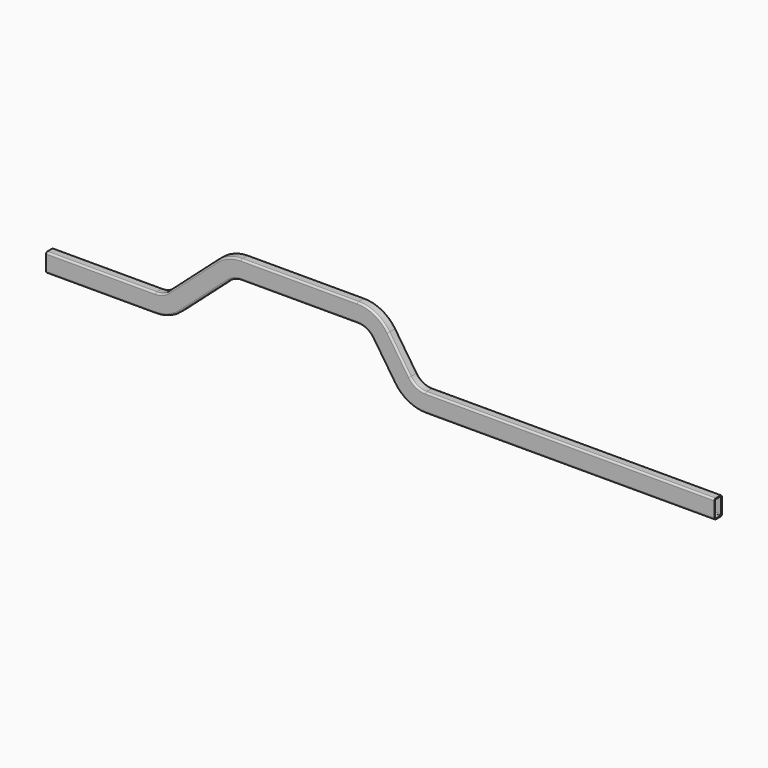
from build123d import *


with BuildPart() as f3:
    # F3: sweep along a path in F0
    with BuildLine(Plane.XZ) as f3_path:
        Line((3202.736139, -46.004161), (1629.903024, -46.004161))
        ThreePointArc((1629.903024, -46.004161), (1558.013215, -27.982788), (1503.125414, 21.81926))
        Line((1503.125414, 21.81926), (1386.314049, 196.915794))
        ThreePointArc((1386.314049, 196.915794), (1331.426249, 246.717842), (1259.536439, 264.739215))
        Line((1259.536439, 264.739215), (627.088678, 264.739215))
        ThreePointArc((627.088678, 264.739215), (572.936984, 254.793959), (525.852908, 226.256198))
        Line((525.852908, 226.256198), (262.791644, -7.521144))
        ThreePointArc((262.791644, -7.521144), (215.707568, -36.058905), (161.555875, -46.004161))
        Line((161.555875, -46.004161), (-434.44556, -46.004161))
    # F2 (on face) → F3 (sweep)
    with BuildSketch(Plane.YZ.offset(-434.44556)):
        with BuildLine():
            ThreePointArc((25.4, -4.729161), (22.610192, 2.006031), (15.875, 4.795839))
            Line((15.875, 4.795839), (-15.875, 4.795839))
            ThreePointArc((-15.875, 4.795839), (-22.610192, 2.006031), (-25.4, -4.729161))
            Line((-25.4, -4.729161), (-25.4, -87.279161))
            ThreePointArc((-25.4, -87.279161), (-22.610192, -94.014353), (-15.875, -96.804161))
            Line((-15.875, -96.804161), (15.875, -96.804161))
            ThreePointArc((15.875, -96.804161), (22.610192, -94.014353), (25.4, -87.279161))
            Line((25.4, -87.279161), (25.4, -4.729161))
        make_face()
        with BuildLine():
            ThreePointArc((15.875, 0.033339), (19.242596, -1.361565), (20.6375, -4.729161))
            Line((20.6375, -4.729161), (20.6375, -87.279161))
            ThreePointArc((20.6375, -87.279161), (19.242596, -90.646757), (15.875, -92.041661))
            Line((15.875, -92.041661), (-15.875, -92.041661))
            ThreePointArc((-15.875, -92.041661), (-19.242596, -90.646757), (-20.6375, -87.279161))
            Line((-20.6375, -87.279161), (-20.6375, -4.729161))
            ThreePointArc((-20.6375, -4.729161), (-19.242596, -1.361565), (-15.875, 0.033339))
            Line((-15.875, 0.033339), (15.875, 0.033339))
        make_face(mode=Mode.SUBTRACT)
    sweep(path=f3_path.line)


solid = f3.part
